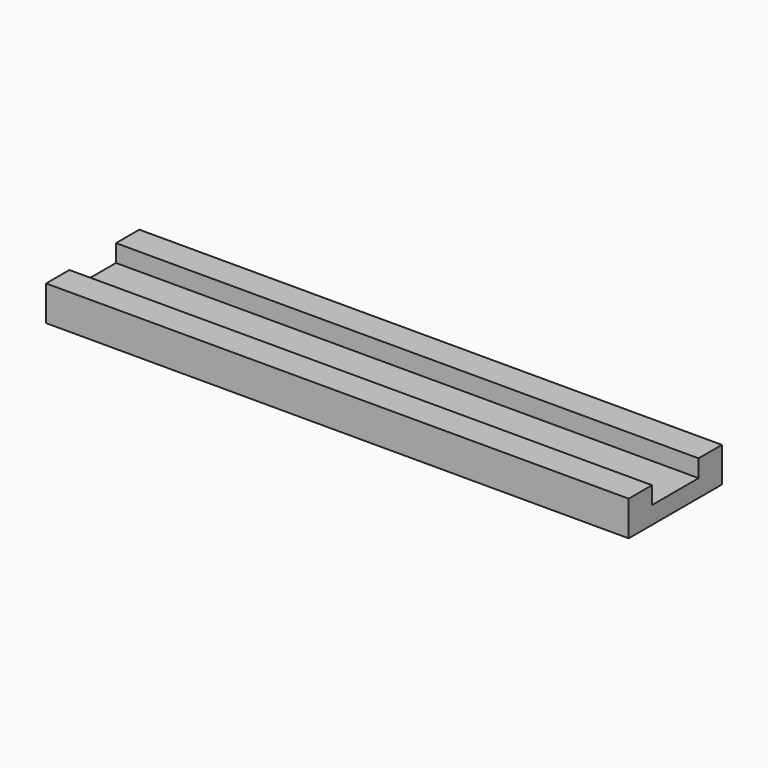
from build123d import *

# Parameters (mm, degrees)
SKETCH_W     = 100
SKETCH_H     = 20
PAD_DEPTH    = 3
SKETCH001_W  = 100
SKETCH001_H  = 5
PAD001_DEPTH = 3


with BuildPart() as part:
    # Sketch → Pad (new body)
    with BuildSketch(Plane.XY):
        Rectangle(SKETCH_W, SKETCH_H)
    extrude(amount=PAD_DEPTH)

    # Sketch001 (on Face6 of Pad) → Pad001 (join)
    with BuildSketch(Plane.XY.offset(3)):
        with Locations((0, 7.5)):
            Rectangle(SKETCH001_W, SKETCH001_H)
        with Locations((0, -7.5)):
            Rectangle(SKETCH001_W, SKETCH001_H)
    extrude(amount=PAD001_DEPTH)


solid = part.part
